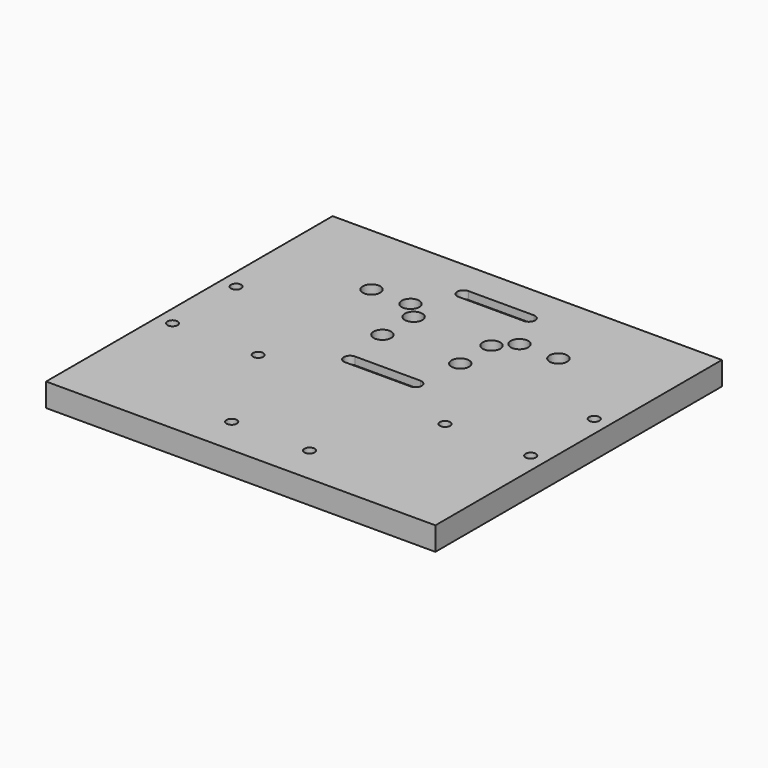
from build123d import *

# Parameters (mm, degrees)
F0_W           = 250
F0_H           = 230
F1_DEPTH       = 15
F3_D           = 6.6
F3_CBORE_D     = 11.25
F3_CBORE_DEPTH = 6
F4_DEPTH       = 5
F5_D           = 6.6
F6_DEPTH       = 5


with BuildPart() as f1:
    # F0 (on Top) → F1 (new body)
    with BuildSketch(Plane.XY):
        with Locations((-61.9829781353, 69.301483577)):
            Rectangle(F0_W, F0_H)
    extrude(amount=F1_DEPTH)

    # F3 (through all)
    with Locations(Plane.XY.offset(15)):
        with Locations((-121.9829781353, 134.301483577), (-96.9829781353, 134.301483577), (-86.9829781353, 124.301483577), (-86.9829781353, 99.301483577), (-36.9829781353, 99.301483577), (-36.9829781353, 124.301483577), (-26.9829781353, 134.301483577), (-1.9829781353, 134.301483577)):
            CounterBoreHole(F3_D / 2, F3_CBORE_D / 2, F3_CBORE_DEPTH)

    # F2 (on face) → F4 (cut)
    with BuildSketch(Plane.XY.offset(15)):
        with BuildLine():
            Line((-40.9829781353, 72.301483577), (-61.9829781353, 72.301483577))
            Line((-61.9829781353, 72.301483577), (-61.9829781353, 64.301483577))
            Line((-61.9829781353, 64.301483577), (-40.9829781353, 64.301483577))
            ThreePointArc((-40.9829781353, 64.301483577), (-38.1545510106, 65.4730564522), (-36.9829781353, 68.301483577))
            ThreePointArc((-36.9829781353, 68.301483577), (-38.1545510106, 71.1299107017), (-40.9829781353, 72.301483577))
        make_face()
        with BuildLine():
            Line((-61.9829781353, 64.301483577), (-61.9829781353, 72.301483577))
            Line((-61.9829781353, 72.301483577), (-82.9829781353, 72.301483577))
            ThreePointArc((-82.9829781353, 72.301483577), (-85.8114052601, 71.1299107017), (-86.9829781353, 68.301483577))
            ThreePointArc((-86.9829781353, 68.301483577), (-85.8114052601, 65.4730564522), (-82.9829781353, 64.301483577))
            Line((-82.9829781353, 64.301483577), (-61.9829781353, 64.301483577))
        make_face()
    extrude(amount=-F4_DEPTH, mode=Mode.SUBTRACT)

    # F5 (through all)
    with Locations(Plane.XY.offset(15)):
        with Locations((53.0170218647, 43.301483577), (-1.9829781353, 43.301483577), (53.0170218647, 94.301483577), (-36.9829781353, -21.698516423), (-86.9829781353, -21.698516423), (-121.9829781353, 43.301483577), (-176.9829781353, 43.301483577), (-176.9829781353, 94.301483577)):
            Hole(F5_D / 2)

    # F2 (on face) → F6 (cut)
    with BuildSketch(Plane.XY.offset(15)):
        with BuildLine():
            Line((-61.9829781353, 155.301483577), (-61.9829781353, 163.301483577))
            Line((-61.9829781353, 163.301483577), (-82.9829781353, 163.301483577))
            ThreePointArc((-82.9829781353, 163.301483577), (-85.8114052601, 162.1299107017), (-86.9829781353, 159.301483577))
            ThreePointArc((-86.9829781353, 159.301483577), (-85.8114052601, 156.4730564522), (-82.9829781353, 155.301483577))
            Line((-82.9829781353, 155.301483577), (-61.9829781353, 155.301483577))
        make_face()
        with BuildLine():
            Line((-40.9829781353, 163.301483577), (-61.9829781353, 163.301483577))
            Line((-61.9829781353, 163.301483577), (-61.9829781353, 155.301483577))
            Line((-61.9829781353, 155.301483577), (-40.9829781353, 155.301483577))
            ThreePointArc((-40.9829781353, 155.301483577), (-38.1545510106, 156.4730564522), (-36.9829781353, 159.301483577))
            ThreePointArc((-36.9829781353, 159.301483577), (-38.1545510106, 162.1299107017), (-40.9829781353, 163.301483577))
        make_face()
    extrude(amount=-F6_DEPTH, mode=Mode.SUBTRACT)


solid = f1.part
